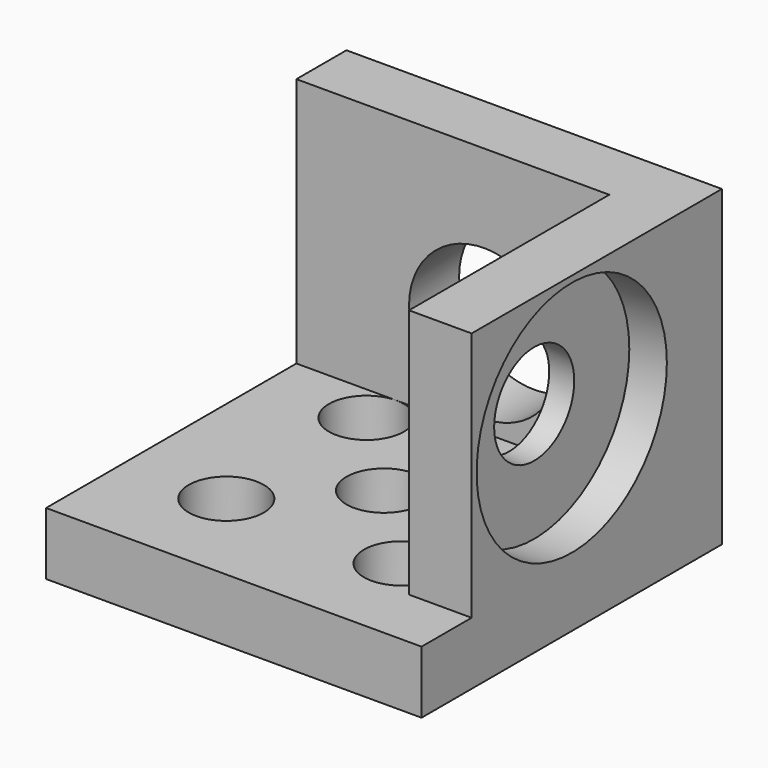
from build123d import *

# Parameters (mm, degrees)
F0_W     = 30
F0_H     = 30
F0_R     = 3
F1_DEPTH = 5
F2_W     = 25
F2_H     = 20
F2_R     = 9.5
F3_DEPTH = 3
F4_W     = 25
F4_H     = 20
F4_R     = 4
F5_DEPTH = 2
F6_W     = 25
F6_H     = 20
F6_R     = 6
F7_DEPTH = 5


with BuildPart() as f1:
    # F0 (on Top) → F1 (new body)
    with BuildSketch(Plane.XY):
        Rectangle(F0_W, F0_H)
        with Locations((-7, -7)):
            Circle(F0_R, mode=Mode.SUBTRACT)
        with Locations((7, -7)):
            Circle(F0_R, mode=Mode.SUBTRACT)
        with Locations((-7, 7)):
            Circle(F0_R, mode=Mode.SUBTRACT)
        Circle(F0_R, mode=Mode.SUBTRACT)
        with Locations((7, 7)):
            Circle(F0_R, mode=Mode.SUBTRACT)
    extrude(amount=F1_DEPTH)

    # F2 (on face) → F3 (join)
    with BuildSketch(Plane.YZ.offset(15)):
        with Locations((2.5, 15)):
            Rectangle(F2_W, F2_H)
        with Locations((0, 15)):
            Circle(F2_R, mode=Mode.SUBTRACT)
    extrude(amount=-F3_DEPTH)

    # F4 (on face) → F5 (join)
    with BuildSketch(Plane(origin=(12, 0, 0), x_dir=(0, -1, 0), z_dir=(-1, 0, 0))):
        with Locations((-2.5, 15)):
            Rectangle(F4_W, F4_H)
        with Locations((0, 15)):
            Circle(F4_R, mode=Mode.SUBTRACT)
    extrude(amount=F5_DEPTH)

    # F6 (on face) → F7 (join)
    with BuildSketch(Plane(origin=(0, 15, 0), x_dir=(-1, 0, 0), z_dir=(0, 1, 0))):
        with Locations((2.5, 15)):
            Rectangle(F6_W, F6_H)
        with Locations((0, 12)):
            Circle(F6_R, mode=Mode.SUBTRACT)
    extrude(amount=-F7_DEPTH)


solid = f1.part
